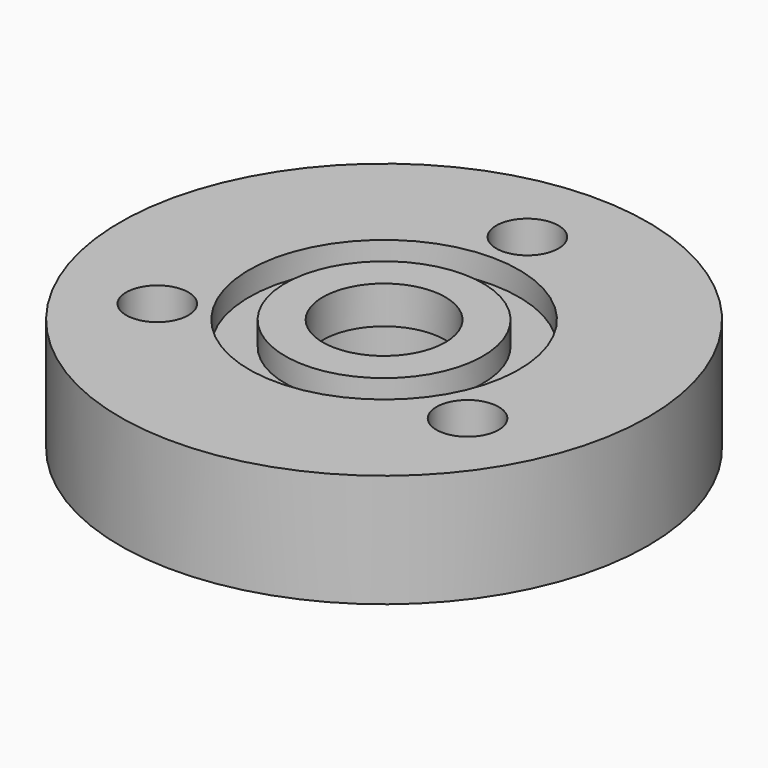
from build123d import *

# Parameters (mm, degrees)
F0_R     = 14
F0_R_2   = 1.65
F0_R_3   = 4
F0_R_4   = 3.25
F1_DEPTH = 6
F2_W     = 1.92
F2_H     = 1.27
F4_DEPTH = 4


with BuildPart() as f1:
    # F0 (on Top) → F1 (new body)
    with BuildSketch(Plane.XY):
        Circle(F0_R)
        with Locations((-8.227241, -4.75)):
            Circle(F0_R_2, mode=Mode.SUBTRACT)
        with Locations((8.227241, -4.75)):
            Circle(F0_R_2, mode=Mode.SUBTRACT)
        Circle(F0_R_3, mode=Mode.SUBTRACT)
        with Locations((0, 9.5)):
            Circle(F0_R_2, mode=Mode.SUBTRACT)
        Circle(F0_R_3)
        Circle(F0_R_4, mode=Mode.SUBTRACT)
    extrude(amount=F1_DEPTH)

    # F2 (on Right) → F3 (revolve, cut)
    with BuildSketch(Plane.YZ):
        with Locations((6.2, 5.365)):
            Rectangle(F2_W, F2_H)
    revolve(axis=Axis((0, 0, 1.894894), (0, 0, -1)), mode=Mode.SUBTRACT)

    # F0 (on Top) → F4 (cut)
    with BuildSketch(Plane.XY):
        Circle(F0_R_3)
        Circle(F0_R_4, mode=Mode.SUBTRACT)
    extrude(amount=F4_DEPTH, mode=Mode.SUBTRACT)


solid = f1.part
